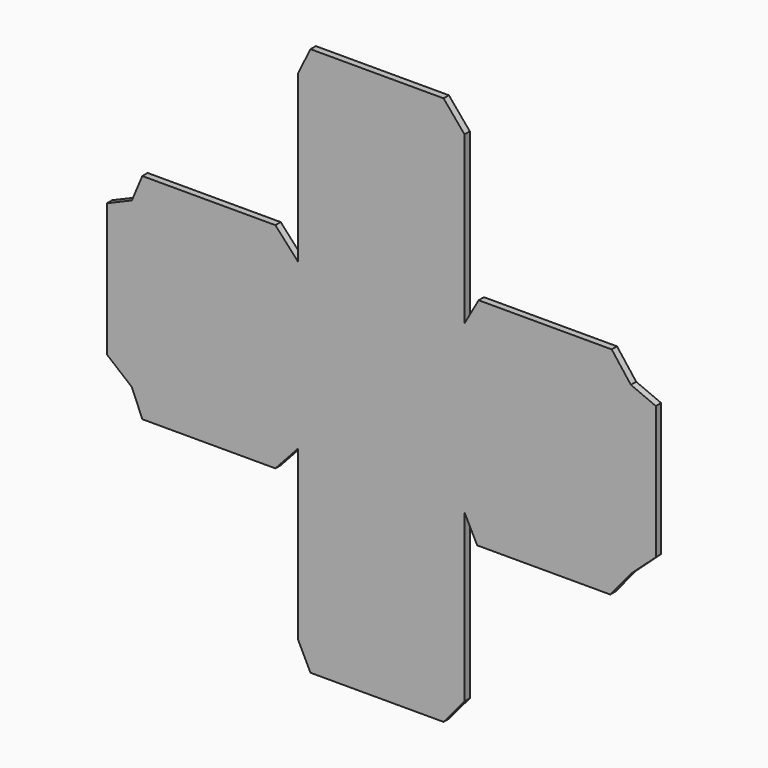
from build123d import *

# Parameters (mm, degrees)
F0_W     = 25
F0_H     = 24.6772709091
F0_H_2   = 25
F1_DEPTH = 1


with BuildPart() as f1:
    # F0 (on Front) → F1 (new body)
    with BuildSketch(Plane.XZ):
        with Locations((-12.5, 12.3386354545)):
            Rectangle(F0_W, F0_H)
        Polygon((0, 24.6772709091), (0, 0), (25, -0.3227290909), (25, 24.6772709091), align=None)
        with Locations((12.5, 37.1772709091)):
            Rectangle(F0_W, F0_H_2)
        with Locations((37.5, 12.1772709091)):
            Rectangle(F0_W, F0_H_2)
        Polygon((25, -0.3227290909), (0, 0), (0, -25.3227290909), (25, -25.3227290909), align=None)
        Polygon((1.8516593846, 53.4272709091), (0, 49.6772709091), (25, 49.6772709091), (21.8516593846, 53.4272709091), align=None)
        Polygon((-25, 24.6772709091), (0, 24.6772709091), (-3.4180502594, 28.4272709091), (-23.4180502594, 28.4272709091), align=None)
        Polygon((-28.75, 3.0904370546), (-25, 0), (-25, 24.6772709091), (-28.75, 23.0904370546), align=None)
        Polygon((-3.4180502594, -3.75), (0, 0), (-25, 0), (-23.4180502594, -3.75), align=None)
        Polygon((25, -25.3227290909), (0, -25.3227290909), (1.8516593846, -29.0727290909), (21.8516593846, -29.0727290909), align=None)
        Polygon((50, -0.3227290909), (25, -0.3227290909), (26.9035287201, -4.0727290909), (46.9035287201, -4.0727290909), align=None)
        Polygon((50, 24.6772709091), (50, -0.3227290909), (53.75, 3.0904370546), (53.75, 23.0904370546), align=None)
        Polygon((27.1213706583, 28.4272709091), (25, 24.6772709091), (50, 24.6772709091), (47.1213706583, 28.4272709091), align=None)
    extrude(amount=F1_DEPTH)


solid = f1.part
